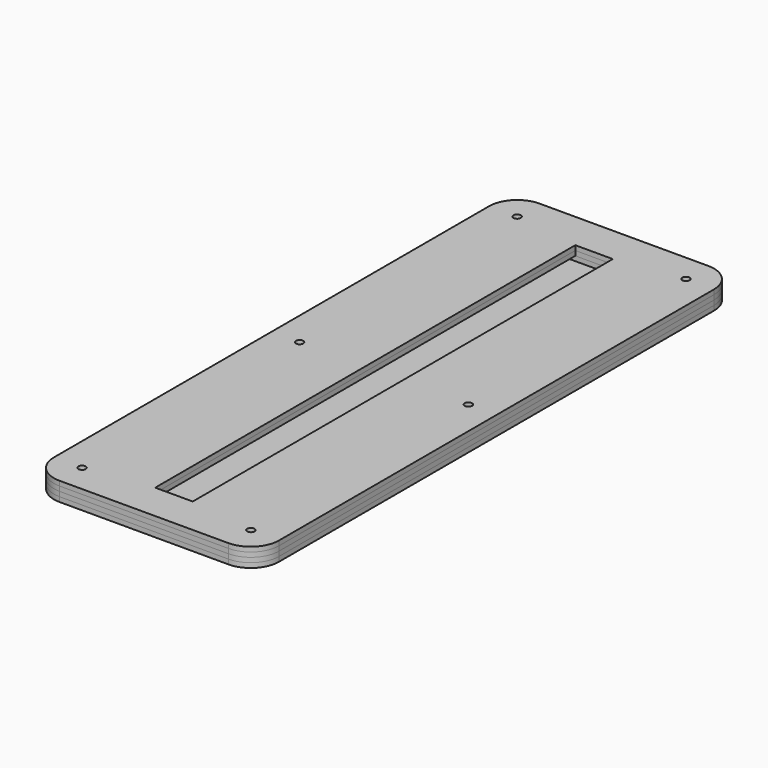
from build123d import *

# Parameters (mm, degrees)
F0_W     = 152.4
F0_H     = 406.4
F0_W_2   = 25.4
F0_H_2   = 355.6
F1_DEPTH = 3.175
F2_W     = 152.4
F2_H     = 406.4
F2_W_2   = 25.4
F2_H_2   = 355.6
F3_DEPTH = 3.175
F4_W     = 152.4
F4_H     = 406.4
F4_W_2   = 101.6
F4_H_2   = 355.6
F5_DEPTH = 3.175
F6_W     = 152.4
F6_H     = 406.4
F7_DEPTH = 3.175
F9_R     = 19.05
F9_2_R   = 19.05
F9_3_R   = 19.05
F9_4_R   = 19.05
F10_D    = 4.9784
F10_2_D  = 4.9784
F10_3_D  = 4.9784
F10_4_D  = 4.9784


with BuildPart() as f1:
    # F0 (on Top) → F1 (new body)
    with BuildSketch(Plane.XY):
        Rectangle(F0_W, F0_H)
        Rectangle(F0_W_2, F0_H_2, mode=Mode.SUBTRACT)
    extrude(amount=F1_DEPTH)

    # F9
    f9_edges = [f1.edges().sort_by_distance(p)[0] for p in [
        (-76.2, -203.2, 1.5875),
        (76.2, -203.2, 1.5875),
        (76.2, 203.2, 1.5875),
        (-76.2, 203.2, 1.5875),
    ]]
    fillet(f9_edges, radius=F9_R)

    # F10 (through all)
    with Locations(Plane.XY.offset(3.175)):
        with Locations((-57.15, 184.15), (57.15, 184.15), (57.15, 0), (-57.15, 0), (-57.15, -184.15), (57.15, -184.15)):
            Hole(F10_D / 2)


with BuildPart() as f3:
    # F2 (on face) → F3 (new body)
    with BuildSketch(Plane(origin=(0, 0, 0), x_dir=(1, 0, 0), z_dir=(0, 0, -1))):
        Rectangle(F2_W, F2_H)
        Rectangle(F2_W_2, F2_H_2, mode=Mode.SUBTRACT)
    extrude(amount=F3_DEPTH)

    # F9#2
    f9_2_edges = [f3.edges().sort_by_distance(p)[0] for p in [
        (-76.2, -203.2, -1.5875),
        (76.2, -203.2, -1.5875),
        (76.2, 203.2, -1.5875),
        (-76.2, 203.2, -1.5875),
    ]]
    fillet(f9_2_edges, radius=F9_2_R)

    # F10#2 (through all)
    with Locations(Plane.XY.offset(3.175)):
        with Locations((-57.15, 184.15), (57.15, 184.15), (57.15, 0), (-57.15, 0), (-57.15, -184.15), (57.15, -184.15)):
            Hole(F10_2_D / 2)


with BuildPart() as f5:
    # F4 (on face) → F5 (new body)
    with BuildSketch(Plane(origin=(0, 0, -3.175), x_dir=(1, 0, 0), z_dir=(0, 0, -1))):
        Rectangle(F4_W, F4_H)
        Rectangle(F4_W_2, F4_H_2, mode=Mode.SUBTRACT)
    extrude(amount=F5_DEPTH)

    # F9#3
    f9_3_edges = [f5.edges().sort_by_distance(p)[0] for p in [
        (-76.2, -203.2, -4.7625),
        (76.2, -203.2, -4.7625),
        (76.2, 203.2, -4.7625),
        (-76.2, 203.2, -4.7625),
    ]]
    fillet(f9_3_edges, radius=F9_3_R)

    # F10#3 (through all)
    with Locations(Plane.XY.offset(3.175)):
        with Locations((-57.15, 184.15), (57.15, 184.15), (57.15, 0), (-57.15, 0), (-57.15, -184.15), (57.15, -184.15)):
            Hole(F10_3_D / 2)


with BuildPart() as f7:
    # F6 (on face) → F7 (new body)
    with BuildSketch(Plane(origin=(0, 0, -6.35), x_dir=(1, 0, 0), z_dir=(0, 0, -1))):
        Rectangle(F6_W, F6_H)
    extrude(amount=F7_DEPTH)

    # F9#4
    f9_4_edges = [f7.edges().sort_by_distance(p)[0] for p in [
        (-76.2, -203.2, -7.9375),
        (76.2, -203.2, -7.9375),
        (76.2, 203.2, -7.9375),
        (-76.2, 203.2, -7.9375),
    ]]
    fillet(f9_4_edges, radius=F9_4_R)

    # F10#4 (through all)
    with Locations(Plane.XY.offset(3.175)):
        with Locations((-57.15, 184.15), (57.15, 184.15), (57.15, 0), (-57.15, 0), (-57.15, -184.15), (57.15, -184.15)):
            Hole(F10_4_D / 2)


solid = Compound([f1.part, f3.part, f5.part, f7.part])
